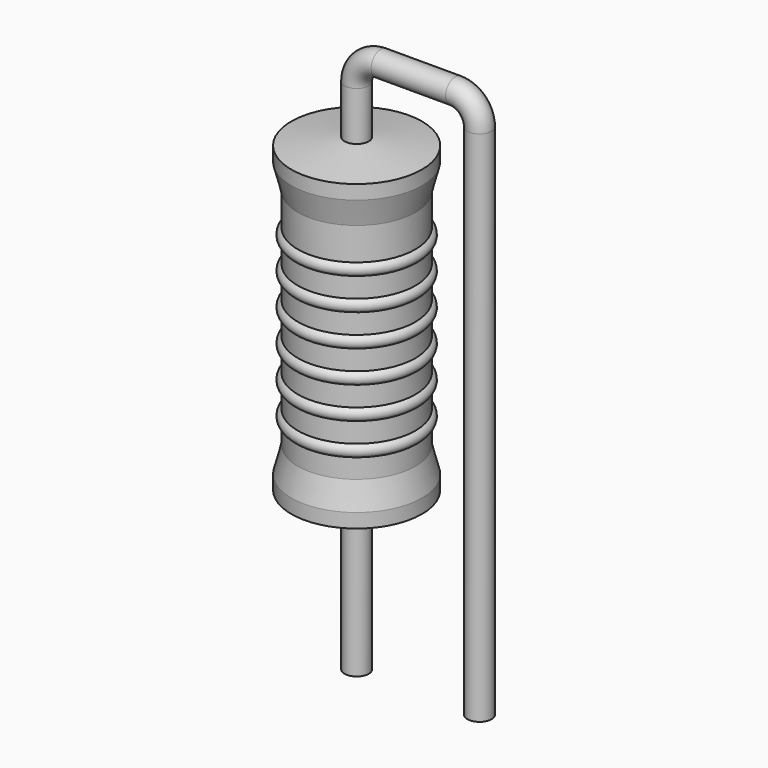
from build123d import *

# Parameters (mm, degrees)
SKETCH_R = 0.25


with BuildPart() as revolution:
    # Sketch002 → Revolution (revolve)
    with BuildSketch(Plane.XZ):
        Polygon((0, 0.1), (0, 6.7), (0.1875, 6.7), (1.35, 6.535), (1.35, 6.2425), (1.215, 5.71), (1.215, 1.09), (1.35, 0.5575), (1.35, 0.265), (0.1875, 0.1), align=None)
    revolve(axis=Axis((0, 0, 0), (0, 0, 1)))


with BuildPart() as revolution001:
    # Sketch003 → Revolution001 (revolve)
    with BuildSketch(Plane.XZ):
        with BuildLine():
            Line((1.08, 5.44), (1.08, 1.09))
            Line((1.08, 1.09), (1.161, 1.09))
            Line((1.161, 1.09), (1.161, 1.48))
            ThreePointArc((1.161, 1.48), (1.296, 1.615), (1.161, 1.75))
            Line((1.161, 1.75), (1.161, 2.14))
            ThreePointArc((1.161, 2.14), (1.296, 2.275), (1.161, 2.41))
            Line((1.161, 2.41), (1.161, 2.8))
            ThreePointArc((1.161, 2.8), (1.296, 2.935), (1.161, 3.07))
            Line((1.161, 3.07), (1.161, 3.46))
            ThreePointArc((1.161, 3.46), (1.296, 3.595), (1.161, 3.73))
            Line((1.161, 3.73), (1.161, 4.12))
            ThreePointArc((1.161, 4.12), (1.296, 4.255), (1.161, 4.39))
            Line((1.161, 4.39), (1.161, 4.78))
            ThreePointArc((1.161, 4.78), (1.296, 4.915), (1.161, 5.05))
            Line((1.161, 5.44), (1.161, 5.05))
            Line((1.08, 5.44), (1.161, 5.44))
        make_face()
    revolve(axis=Axis((0, 0, 0), (0, 0, 1)))


with BuildPart() as obj1:
    # Sweep: sweep along a path in Sketch001
    with BuildLine(Plane.XZ) as sweep_path:
        Line((0, -3), (0, 7.7))
        ThreePointArc((0, 7.7), (0.146444, 8.053551), (0.499992, 8.2))
        Line((0.499992, 8.2), (2.04, 8.2))
        ThreePointArc((2.04, 8.2), (2.393553, 8.053553), (2.54, 7.7))
        Line((2.54, 7.7), (2.54, -3))
    # Sketch → Sweep (sweep)
    with BuildSketch(Plane.XY.offset(-2)):
        Circle(SKETCH_R)
    sweep(path=sweep_path.line)

    # obj1: union Revolution, Revolution001
    add(revolution.part)
    add(revolution001.part)


solid = obj1.part
